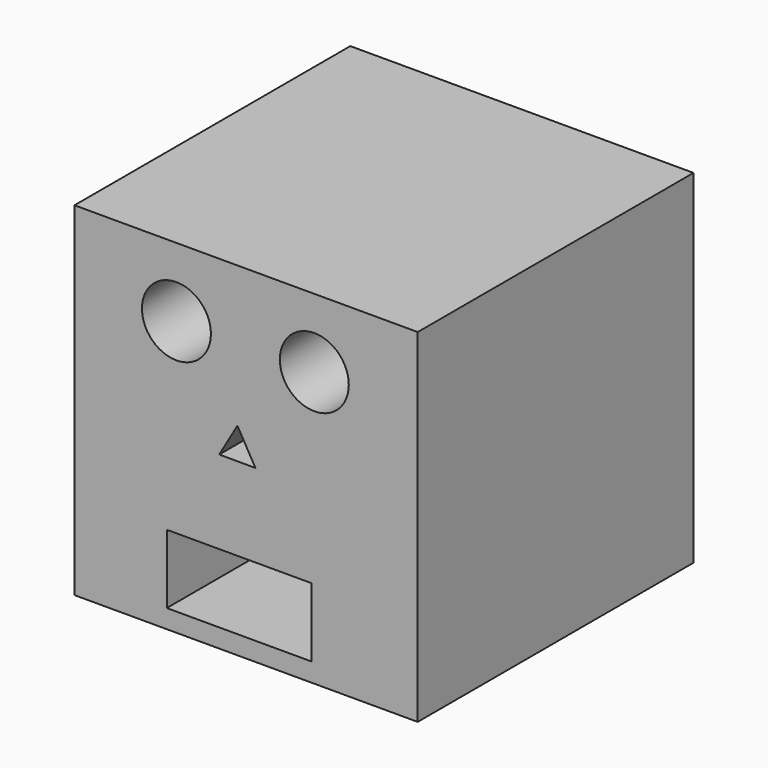
from build123d import *

# Parameters (mm, degrees)
F0_W     = 98.895595
F0_H     = 99.196188
F0_W_2   = 42
F0_H_2   = 20
F0_R     = 10
F1_DEPTH = 100
F3_DEPTH = 25


with BuildPart() as f1:
    # F0 (on Front) → F1 (new body)
    with BuildSketch(Plane.XZ):
        Polygon((52.307254, -49.542874), (52.307254, 50.024388), (-47.259618, 50.024388), (-47.259618, 49.653314), (51.635977, 49.653314), (51.635977, -49.542874), align=None)
        with Locations((2.18818, 0.05522)):
            Rectangle(F0_W, F0_H)
        with Locations((0.514312, -34.132177)):
            Rectangle(F0_W_2, F0_H_2, mode=Mode.SUBTRACT)
        Polygon((5.228865, 0), (-5.271107, 0.024388), (0, 9.105436), align=None, mode=Mode.SUBTRACT)
        with Locations((-17.692746, 30.024388)):
            Circle(F0_R, mode=Mode.SUBTRACT)
        with Locations((22.307254, 30.024388)):
            Circle(F0_R, mode=Mode.SUBTRACT)
    extrude(amount=F1_DEPTH)

    # F0 (on Front) → F3 (join)
    with BuildSketch(Plane.XZ):
        Polygon((52.307254, -49.542874), (52.307254, 50.024388), (-47.259618, 50.024388), (-47.259618, 49.653314), (51.635977, 49.653314), (51.635977, -49.542874), align=None)
        with Locations((2.18818, 0.05522)):
            Rectangle(F0_W, F0_H)
        with Locations((0.514312, -34.132177)):
            Rectangle(F0_W_2, F0_H_2, mode=Mode.SUBTRACT)
        Polygon((5.228865, 0), (-5.271107, 0.024388), (0, 9.105436), align=None, mode=Mode.SUBTRACT)
        with Locations((-17.692746, 30.024388)):
            Circle(F0_R, mode=Mode.SUBTRACT)
        with Locations((22.307254, 30.024388)):
            Circle(F0_R, mode=Mode.SUBTRACT)
    extrude(amount=F3_DEPTH)


solid = f1.part
